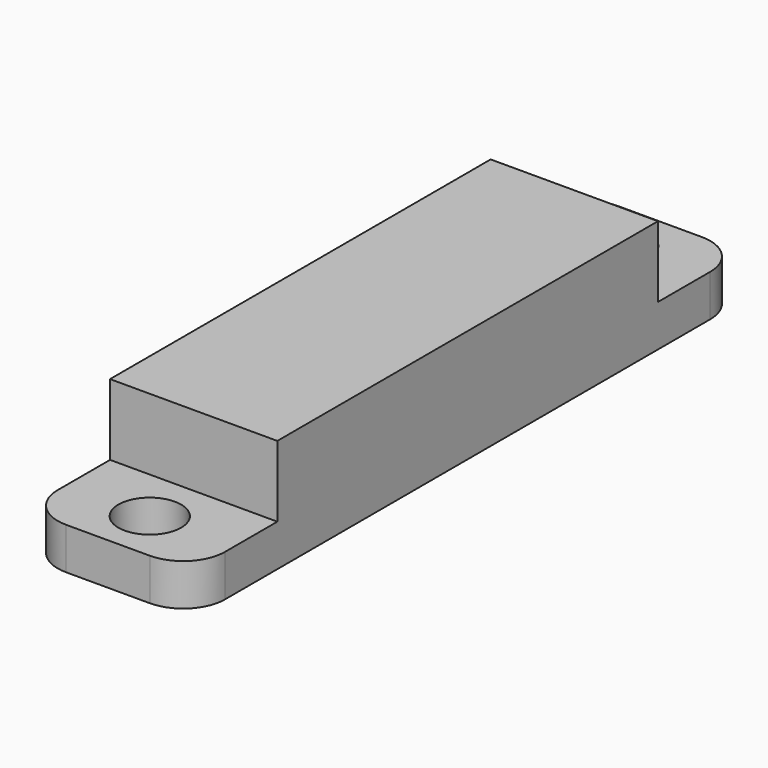
from build123d import *

# Parameters (mm, degrees)
PAD003_DEPTH    = 8
SKETCH006_R     = 1.5
POCKET002_DEPTH = 5
FILLET003_R     = 2


with BuildPart() as part:
    # Sketch005 → Pad003 (new body)
    with BuildSketch(Plane.YZ):
        Polygon((-17, -5), (-11.875, -5), (-11.875, -1.6), (10.875, -1.6), (10.875, -5), (16, -5), (16, -7), (-17, -7), align=None)
    extrude(amount=PAD003_DEPTH)

    # Sketch006 (on Face7 of Pad003) → Pocket002 (cut)
    with BuildSketch(Plane.YX.offset(7)):
        with Locations((-14.5, 4)):
            Circle(SKETCH006_R)
        with Locations((13.5, 4)):
            Circle(SKETCH006_R)
    extrude(amount=-POCKET002_DEPTH, mode=Mode.SUBTRACT)

    # Fillet003
    fillet003_edges = [part.edges().sort_by_distance(p)[0] for p in [
        (8, -17, -6),
        (0, -17, -6),
        (8, 16, -6),
        (0, 16, -6),
    ]]
    fillet(fillet003_edges, radius=FILLET003_R)


with BuildPart() as part_1:
    # Body002 placement: moved
    add(part.part.moved(Location((63.75, -1, 17))))


solid = part_1.part
